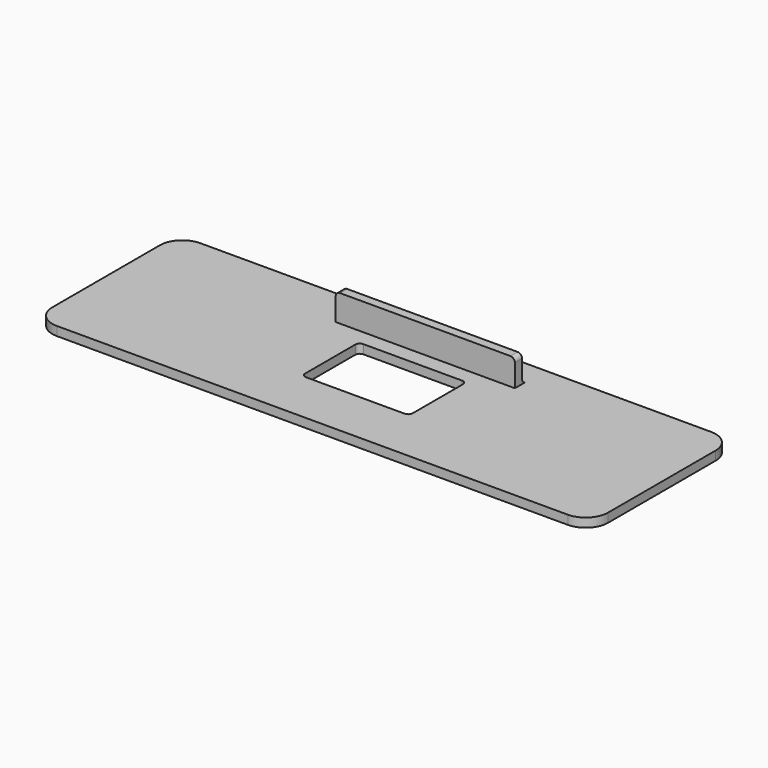
from build123d import *

# Parameters (mm, degrees)
F0_W     = 124
F0_H     = 40
F0_W_2   = 24
F0_H_2   = 16
F0_W_3   = 40
F0_H_3   = 2
F1_DEPTH = 2
F2_R     = 5
F3_R     = 1
F4_DEPTH = 8
F5_R     = 1


with BuildPart() as f1:
    # F0 (on Top) → F1 (new body)
    with BuildSketch(Plane.XY):
        Rectangle(F0_W, F0_H)
        Rectangle(F0_W_2, F0_H_2, mode=Mode.SUBTRACT)
        with Locations((0, 12.5)):
            Rectangle(F0_W_3, F0_H_3, mode=Mode.SUBTRACT)
    extrude(amount=F1_DEPTH)

    # F2
    f2_edges = [f1.edges().sort_by_distance(p)[0] for p in [
        (-62, 20, 1),
        (62, 20, 1),
        (62, -20, 1),
        (-62, -20, 1),
    ]]
    fillet(f2_edges, radius=F2_R)

    # F3
    f3_edges = [f1.edges().sort_by_distance(p)[0] for p in [
        (12, -8, 1),
        (-12, -8, 1),
        (12, 8, 1),
        (-12, 8, 1),
    ]]
    fillet(f3_edges, radius=F3_R)

    # F0 (on Top) → F4 (join)
    with BuildSketch(Plane.XY):
        with Locations((0, 12.5)):
            Rectangle(F0_W_3, F0_H_3)
    extrude(amount=F4_DEPTH)

    # F5
    f5_edges = [f1.edges().sort_by_distance(p)[0] for p in [
        (0, 13.5, 2),
        (20, 12.5, 8),
        (-20, 12.5, 8),
    ]]
    fillet(f5_edges, radius=F5_R)


solid = f1.part
